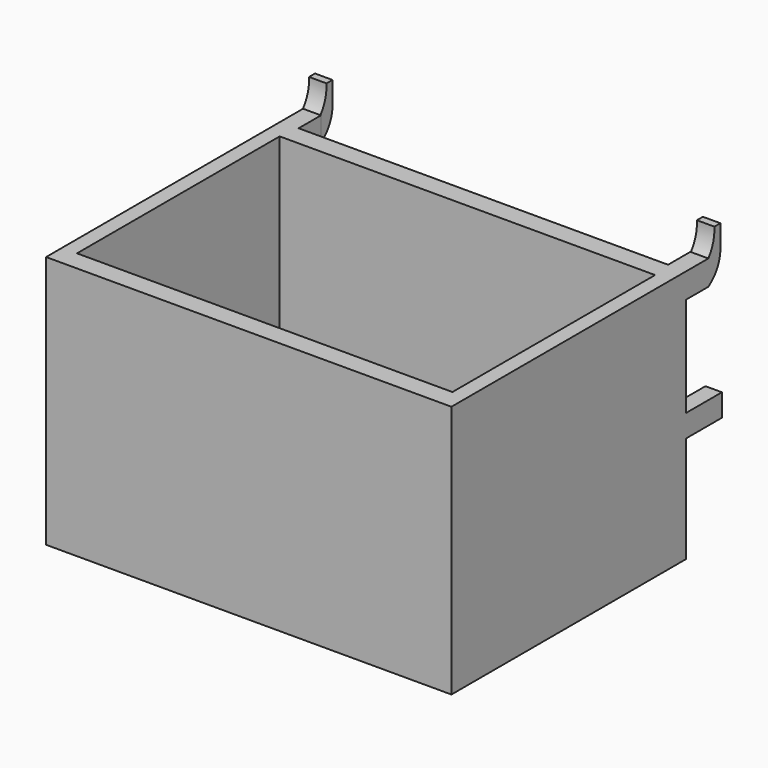
from build123d import *

# Parameters (mm, degrees)
F0_W      = 81.28
F0_H      = 50.8
F1_DEPTH  = 4
F2_W      = 3
F2_H      = 47.8
F2_H_2    = 3
F2_W_2    = 75.28
F3_DEPTH  = 50.8
F4_W      = 75.28
F4_H      = 47.8
F5_DEPTH  = 4
F6_W      = 3.6
F6_H      = 5
F7_DEPTH  = 5.6
F9_W      = 3.3
F9_H      = 4.5
F10_DEPTH = 9
F11_DEPTH = 3.5


with BuildPart() as f1:
    # F0 (on Front) → F1 (new body)
    with BuildSketch(Plane.XZ):
        Rectangle(F0_W, F0_H)
    extrude(amount=F1_DEPTH)

    # F2 (on face) → F3 (join)
    with BuildSketch(Plane.XZ.offset(4)):
        with Locations((-39.14, 1.5)):
            Rectangle(F2_W, F2_H)
        with Locations((-39.14, -23.9)):
            Rectangle(F2_W, F2_H_2)
        with Locations((0, -23.9)):
            Rectangle(F2_W_2, F2_H_2)
        with Locations((39.14, -23.9)):
            Rectangle(F2_W, F2_H_2)
        with Locations((39.14, 1.5)):
            Rectangle(F2_W, F2_H)
    extrude(amount=F3_DEPTH)

    # F4 (on face) → F5 (join)
    with BuildSketch(Plane.XZ.offset(54.8)):
        Polygon((-40.64, 25.4), (-40.64, -25.4), (40.64, -25.4), (40.64, 25.4), (37.64, 25.4), (37.64, -22.4), (-37.64, -22.4), (-37.64, 25.4), align=None)
        with Locations((0, 1.5)):
            Rectangle(F4_W, F4_H)
    extrude(amount=F5_DEPTH)

    # F6 (on face) → F7 (join)
    with BuildSketch(Plane(origin=(0, 0, 0), x_dir=(-1, 0, 0), z_dir=(0, 1, 0))):
        with Locations((-38.84, 22.9)):
            Rectangle(F6_W, F6_H)
        with Locations((38.84, 22.9)):
            Rectangle(F6_W, F6_H)
    extrude(amount=F7_DEPTH)

    # F9 (on face) → F10 (join)
    with BuildSketch(Plane(origin=(0, 0, 0), x_dir=(-1, 0, 0), z_dir=(0, 1, 0))):
        with Locations((38.99, -1.85)):
            Rectangle(F9_W, F9_H)
        with Locations((-38.99, -1.85)):
            Rectangle(F9_W, F9_H)
    extrude(amount=F10_DEPTH)

    # F8 (on face) → F11 (join)
    with BuildSketch(Plane(origin=(-40.64, 0, 0), x_dir=(0, -1, 0), z_dir=(-1, 0, 0))):
        with BuildLine():
            Line((-8.6013965008, 30.4046550027), (-8.6013965008, 25.4046550027))
            ThreePointArc((-8.6013965008, 25.4046550027), (-7.6846062869, 22.5521456134), (-5.6, 20.4))
            Line((-5.6, 20.4), (-5.6, 25.4))
            ThreePointArc((-5.6, 25.4), (-6.8110562613, 27.7642200981), (-7.1013965008, 30.4046550027))
            Line((-7.1013965008, 30.4046550027), (-8.6013965008, 30.4046550027))
        make_face()
    extrude(amount=-F11_DEPTH)

    # F12: F1 across plane


with BuildPart() as f1_1:
    add(f1.part)
    add(f1.part.mirror(Plane.YZ))


solid = f1_1.part
